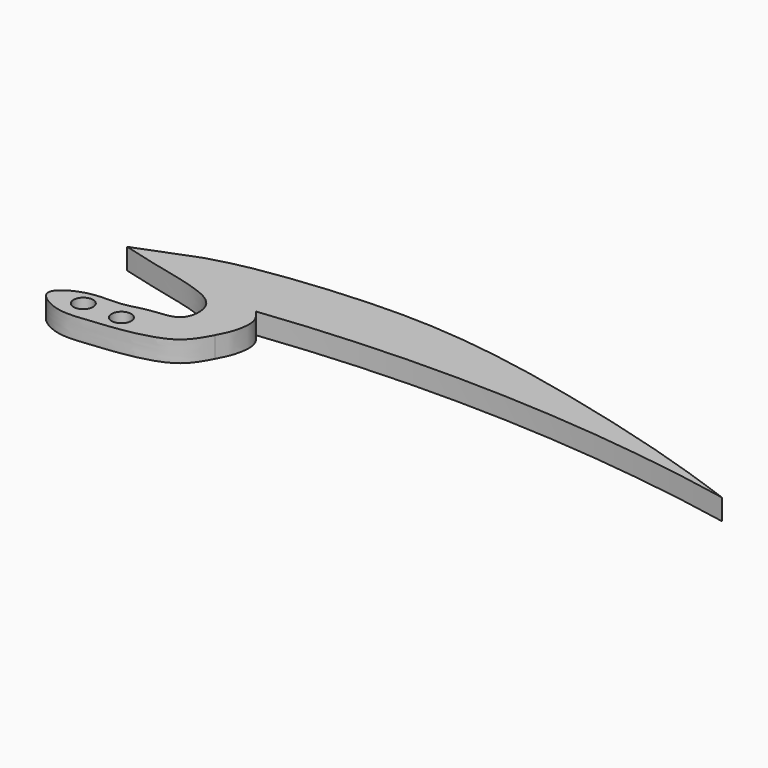
from build123d import *

# Parameters (mm, degrees)
F1_DEPTH = 4.318
F2_R     = 2.0193
F3_DEPTH = 43.18


with BuildPart() as f1:
    # F0 (on Top) → F1 (new body)
    with BuildSketch(Plane.XY):
        with BuildLine():
            add(Edge.make_bspline(
                [(-32.7334031463, 9.3249138445), (-30.5118957807, 9.9860151356), (-24.3984335768, 11.8053283724), (1.6254396763, 14.7458770901), (28.5705469324, 12.5750165565), (66.4501839033, 2.8420712634), (79.3991291932, -1.8360075377), (84.748134017, -3.7684480194)],
                knots=[0, 0, 0, 0, 0.1196367931, 0.3292336655, 0.5560506384, 0.8166115291, 1, 1, 1, 1], degree=3))
            add(Edge.make_bspline(
                [(-32.7334031463, 9.3249138445), (-36.7391345402, 7.7704507858), (-40.7448659341, 6.215987727), (-44.7505973279, 4.6615246683)],
                knots=[0, 0, 0, 0, 12.8903124325, 12.8903124325, 12.8903124325, 12.8903124325], degree=3))
            add(Edge.make_bspline(
                [(-44.7505973279, 4.6615246683), (-41.7869584767, 3.861505633), (-35.8876306761, 2.2690124943), (-27.1384464384, 0.4055006525), (-21.0137193049, -2.6726572407), (-21.4520912193, -10.3019632632), (-28.3574325891, -10.0304229156), (-33.068718258, -11.9804882325), (-39.4122343095, -11.0836407475), (-47.0736507182, -15.4787957336), (-40.4259530789, -19.8715286738), (-34.5005974511, -19.4025947979), (-25.2348343756, -18.4327303415), (-17.38036628, -15.9982829374), (-15.3668538112, -12.2925980566), (-14.4385667518, -10.5841709301)],
                knots=[0, 0, 0, 0, 0.0904132009, 0.1799737203, 0.2537676784, 0.3228370813, 0.3940117912, 0.4613246784, 0.537964954, 0.6117524123, 0.6795725769, 0.7540513819, 0.8451677322, 0.928617879, 1, 1, 1, 1], degree=3))
            add(Edge.make_bspline(
                [(-14.4385667518, -10.5841709301), (-13.9146423693, -9.5943096369), (-12.7995330602, -7.487510298), (-12.076831518, -2.6993389389), (-13.6894406034, -0.8562117182), (-14.4385667518, 0)],
                knots=[0, 0, 0, 0, 0.3218209363, 0.6849567111, 1, 1, 1, 1], degree=3))
            ThreePointArc((-14.4385667518, 0), (35.3026153441, 2.0067517056), (84.748134017, -3.7684480194))
        make_face()
    extrude(amount=F1_DEPTH)

    # F2 (on face) → F3 (cut)
    with BuildSketch(Plane.XY.offset(4.318)):
        with Locations((-37.9253455085, -15.1695273817)):
            Circle(F2_R)
        with Locations((-30.0628639179, -15.1695273817)):
            Circle(F2_R)
    extrude(amount=-F3_DEPTH, mode=Mode.SUBTRACT)


solid = f1.part
